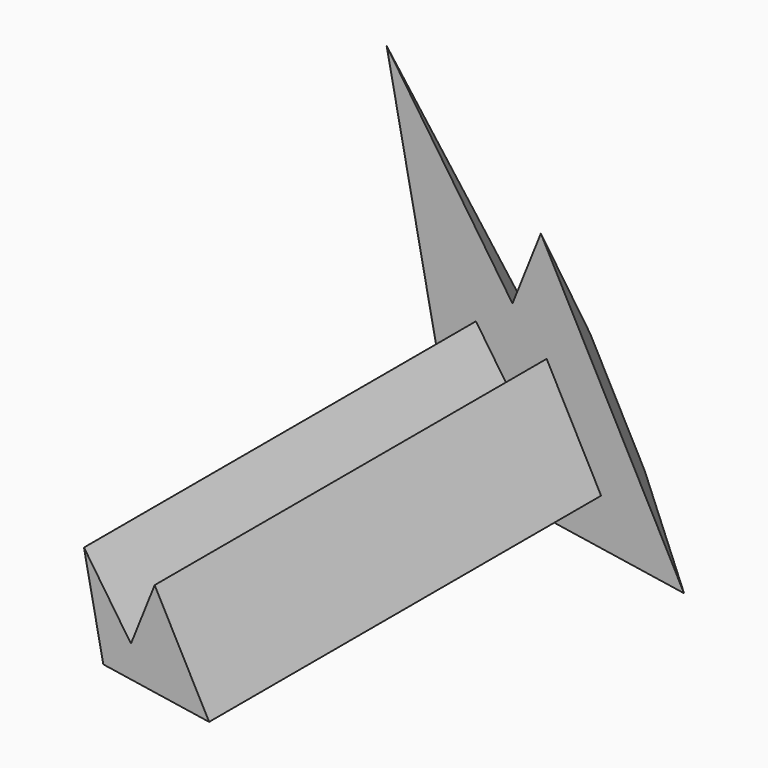
from build123d import *

# Parameters (mm, degrees)
F1_DEPTH = 150
F2_DEPTH = 15
F2_TAPER = -40


with BuildPart() as f1:
    # F0 (on Front) → F1 (new body)
    with BuildSketch(Plane.XZ):
        Polygon((-1.5002588741, -3.1941000372), (-14.446044527, 15.9221046604), (-9.1225432232, -10.6953958049), (20.0357193127, -15.1719756424), (5.0331273116, 13.1393668242), align=None)
    extrude(amount=F1_DEPTH)

    # F0 (on Front) → F2 (join)
    with BuildSketch(Plane.XZ):
        Polygon((-1.5002588741, -3.1941000372), (-14.446044527, 15.9221046604), (-9.1225432232, -10.6953958049), (20.0357193127, -15.1719756424), (5.0331273116, 13.1393668242), align=None)
    extrude(amount=F2_DEPTH, taper=F2_TAPER)


solid = f1.part
